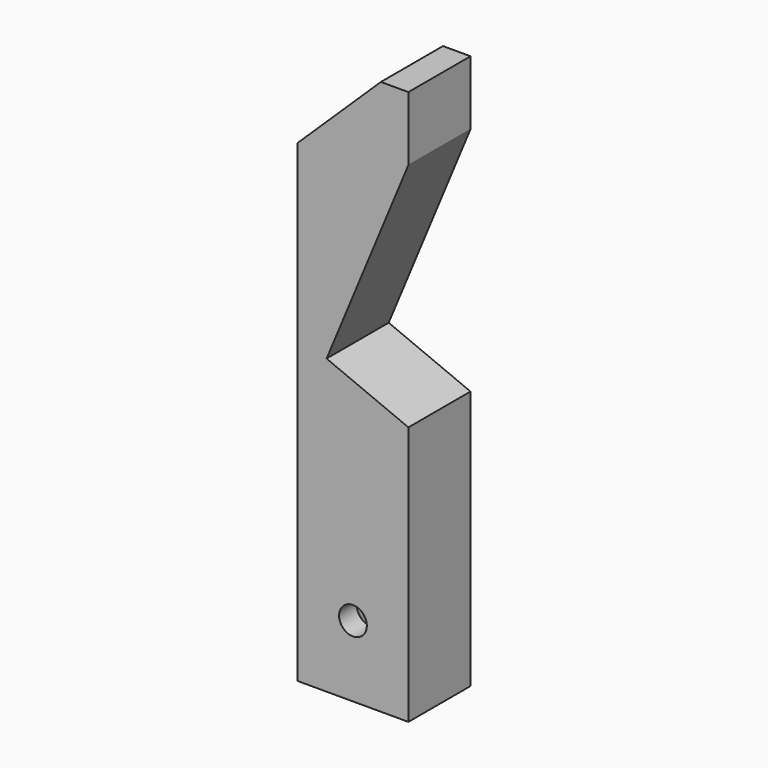
from build123d import *

# Parameters (mm, degrees)
F0_W     = 10
F0_H     = 50
F1_DEPTH = 7
F2_W     = 7
F2_H     = 20
F3_DEPTH = 5
F4_R     = 1.25
F5_DEPTH = 2.001
F7_DEPTH = 7.001


with BuildPart() as f1:
    # F0 (on Front) → F1 (new body)
    with BuildSketch(Plane.XZ):
        with Locations((-27.172005, 27.438496)):
            Rectangle(F0_W, F0_H)
    extrude(amount=F1_DEPTH)

    # F2 (on face) → F3 (cut)
    with BuildSketch(Plane(origin=(0, 0, 0), x_dir=(-1, 0, 0), z_dir=(0, 1, 0))):
        with Locations((27.172005, 14.438496)):
            Rectangle(F2_W, F2_H)
    extrude(amount=-F3_DEPTH, mode=Mode.SUBTRACT)

    # F4 (on face) → F5 (cut, through all)
    with BuildSketch(Plane(origin=(0, -5, 0), x_dir=(-1, 0, 0), z_dir=(0, 1, 0))):
        with Locations((27.172005, 8.848496)):
            Circle(F4_R)
    extrude(amount=-F5_DEPTH, mode=Mode.SUBTRACT)

    # F6 (on face) → F7 (cut, through all)
    with BuildSketch(Plane.XZ.offset(7)):
        Polygon((-32.172005, 52.438496), (-32.172005, 45.144096), (-24.652329, 52.438496), align=None)
        Polygon((-29.548446, 28.8854), (-22.172005, 25.822317), (-22.172005, 46.649169), align=None)
    extrude(amount=-F7_DEPTH, mode=Mode.SUBTRACT)


solid = f1.part
